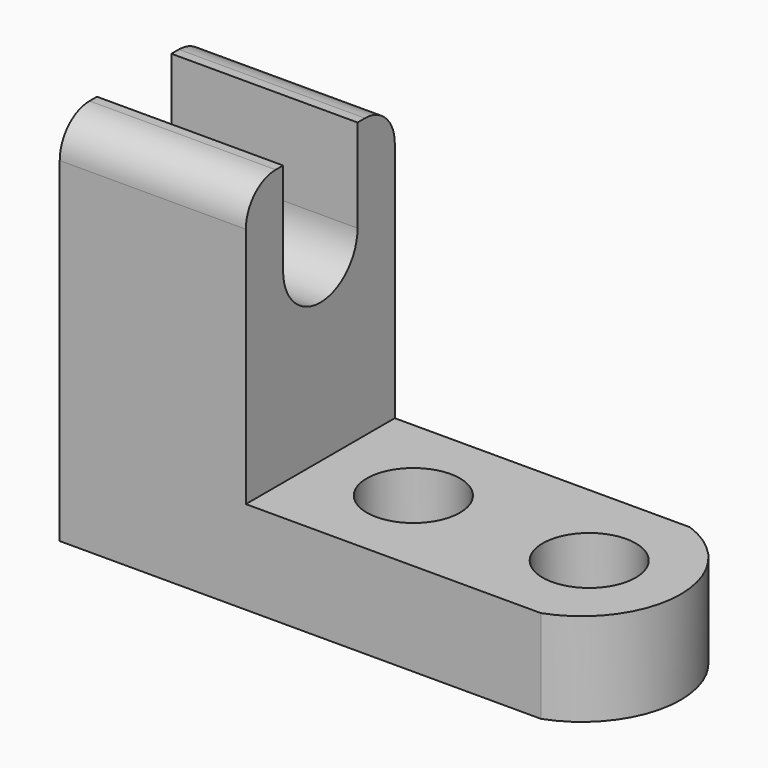
from build123d import *

# Parameters (mm, degrees)
F1_DEPTH = 25.4
F2_R     = 6.35
F3_DEPTH = 12.701
F5_DEPTH = 25.401
F6_R     = 5.08
F7_R     = 5.08


with BuildPart() as f1:
    # F0 (on Front) → F1 (new body)
    with BuildSketch(Plane.XZ):
        Polygon((-40.276536, 60.90298), (-65.676536, 60.90298), (-65.676536, 10.10298), (9.114186, 10.10298), (9.114186, 22.80298), (-40.276536, 22.80298), align=None)
    extrude(amount=F1_DEPTH)

    # F2 (on face) → F3 (cut, through all)
    with BuildSketch(Plane.XY.offset(22.80298)):
        with Locations((-27.576536, -12.7)):
            Circle(F2_R)
        with Locations((-3.585814, -12.7)):
            Circle(F2_R)
        with BuildLine():
            ThreePointArc((0, 0), (8.89883, -12.7), (0, -25.4))
            Line((0, -25.4), (9.114186, -25.4))
            Line((9.114186, -25.4), (9.114186, 0))
            Line((9.114186, 0), (0, 0))
        make_face()
    extrude(amount=-F3_DEPTH, mode=Mode.SUBTRACT)

    # F4 (on face) → F5 (cut, through all)
    with BuildSketch(Plane.YZ.offset(-40.276536)):
        with BuildLine():
            ThreePointArc((-19.05, 48.20298), (-12.7, 41.85298), (-6.35, 48.20298))
            ThreePointArc((-6.35, 48.20298), (-12.7, 54.55298), (-19.05, 48.20298))
        make_face()
        with BuildLine():
            ThreePointArc((-19.05, 48.20298), (-12.7, 54.55298), (-6.35, 48.20298))
            Line((-6.35, 48.20298), (-6.35, 60.90298))
            Line((-6.35, 60.90298), (-19.05, 60.90298))
            Line((-19.05, 60.90298), (-19.05, 48.20298))
        make_face()
    extrude(amount=-F5_DEPTH, mode=Mode.SUBTRACT)

    # F6
    f6_edges = [f1.edges().sort_by_distance(p)[0] for p in [
        (-52.976536, -25.4, 60.90298),
    ]]
    fillet(f6_edges, radius=F6_R)

    # F7
    f7_edges = [f1.edges().sort_by_distance(p)[0] for p in [
        (-52.976536, 0, 60.90298),
    ]]
    fillet(f7_edges, radius=F7_R)


solid = f1.part
